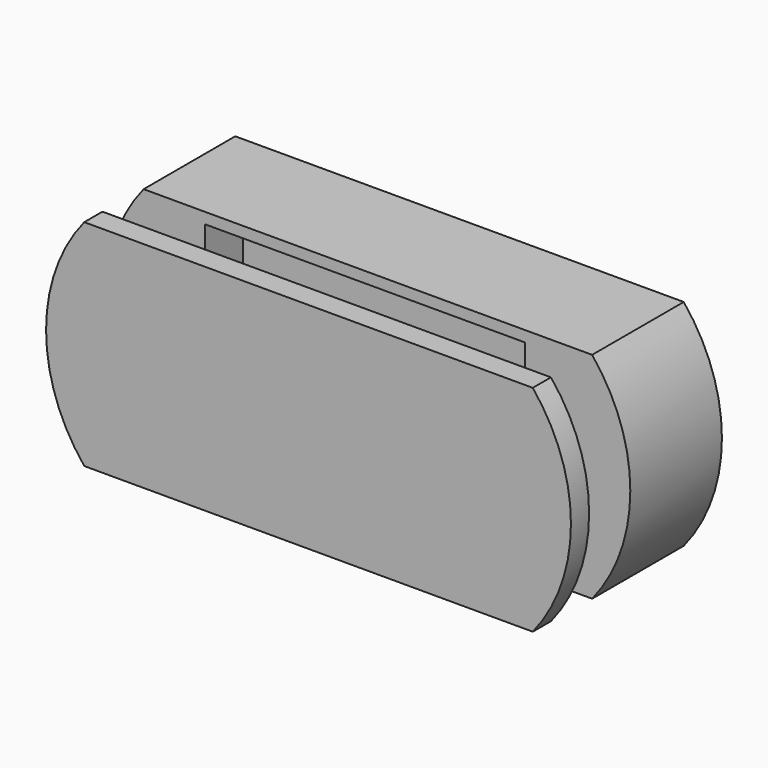
from build123d import *

# Parameters (mm, degrees)
F0_W     = 47.05
F0_H     = 21.65
F1_DEPTH = 5
F2_W     = 4.5
F2_H     = 45
F2_W_2   = 85
F3_DEPTH = 4.7625
F4_W     = 4.5
F4_H     = 45
F4_W_2   = 85
F5_DEPTH = 24
F6_W     = 67.05
F6_H     = 41
F7_DEPTH = 10


with BuildPart() as f1:
    # F0 (on Front) → F1 (new body, symmetric)
    with BuildSketch(Plane.XZ):
        Rectangle(F0_W, F0_H)
    extrude(amount=F1_DEPTH, both=True)

    # F2 (on face) → F3 (join)
    with BuildSketch(Plane.XZ.offset(5)):
        with Locations((44.75, 0)):
            Rectangle(F2_W, F2_H)
        with BuildLine():
            ThreePointArc((47, -22.5), (55, 0), (47, 22.5))
            Line((47, 22.5), (47, -22.5))
        make_face()
        Rectangle(F2_W_2, F2_H)
        with Locations((-44.75, 0)):
            Rectangle(F2_W, F2_H)
        with BuildLine():
            Line((-47, -22.5), (-47, 22.5))
            ThreePointArc((-47, 22.5), (-55, 0), (-47, -22.5))
        make_face()
    extrude(amount=F3_DEPTH)


with BuildPart() as f5:
    # F4 (on face) → F5 (new body)
    with BuildSketch(Plane(origin=(0, 5, 0), x_dir=(-1, 0, 0), z_dir=(0, 1, 0))):
        with Locations((44.1160562322, 0.2927509486)):
            Rectangle(F4_W, F4_H)
        with BuildLine():
            Line((46.3660562322, 22.7927509486), (46.3660562322, -22.2072490514))
            ThreePointArc((46.3660562322, -22.2072490514), (54.3660562322, 0.2927509486), (46.3660562322, 22.7927509486))
        make_face()
        with Locations((-0.6339437678, 0.2927509486)):
            Rectangle(F4_W_2, F4_H)
        with Locations((-45.3839437678, 0.2927509486)):
            Rectangle(F4_W, F4_H)
        with BuildLine():
            ThreePointArc((-47.6339437678, 22.7927509486), (-55.6339437678, 0.2927509486), (-47.6339437678, -22.2072490514))
            Line((-47.6339437678, -22.2072490514), (-47.6339437678, 22.7927509486))
        make_face()
    extrude(amount=F5_DEPTH)

    # F6 (on face) → F7 (cut)
    with BuildSketch(Plane.XZ.offset(-5)):
        Rectangle(F6_W, F6_H)
    extrude(amount=-F7_DEPTH, mode=Mode.SUBTRACT)


solid = Compound([f1.part, f5.part])
